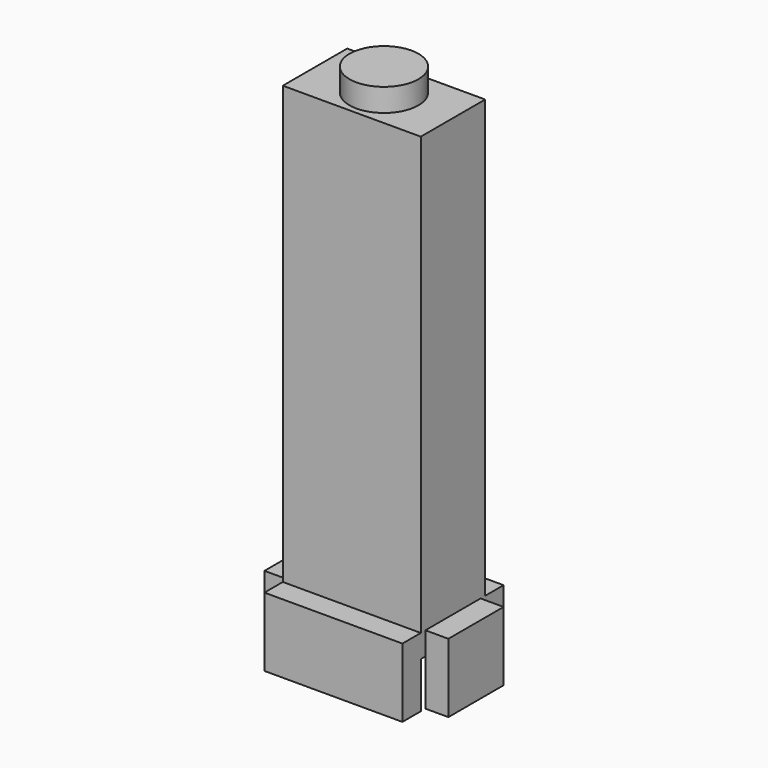
from build123d import *

# Parameters (mm, degrees)
CYLINDER_R     = 1.5
CYLINDER_DEPTH = 10
BOX004_W       = 1
BOX004_H       = 3
BOX004_DEPTH   = 3
BOX005_W       = 1
BOX005_H       = 3
BOX005_DEPTH   = 3
BOX006_W       = 6
BOX006_H       = 1
BOX006_DEPTH   = 3
BOX007_W       = 6
BOX007_H       = 1
BOX007_DEPTH   = 3
BOX003_W       = 6
BOX003_H       = 3.5
BOX003_DEPTH   = 20


with BuildPart() as cylinder:
    # Cylinder → Cylinder (new body)
    with BuildSketch(Plane(origin=(15, 8.75, 20), x_dir=(1, 0, 0), z_dir=(0, 0, 1))):
        Circle(CYLINDER_R)
    extrude(amount=CYLINDER_DEPTH)


with BuildPart() as box004:
    # Box004 → Box004 (new body)
    with BuildSketch(Plane(origin=(11, 7.25, 7), x_dir=(1, 0, 0), z_dir=(0, 0, 1))):
        with Locations((0.5, 1.5)):
            Rectangle(BOX004_W, BOX004_H)
    extrude(amount=BOX004_DEPTH)


with BuildPart() as box005:
    # Box005 → Box005 (new body)
    with BuildSketch(Plane(origin=(18, 7.25, 7), x_dir=(1, 0, 0), z_dir=(0, 0, 1))):
        with Locations((0.5, 1.5)):
            Rectangle(BOX005_W, BOX005_H)
    extrude(amount=BOX005_DEPTH)


with BuildPart() as box006:
    # Box006 → Box006 (new body)
    with BuildSketch(Plane(origin=(12, 6, 7), x_dir=(1, 0, 0), z_dir=(0, 0, 1))):
        with Locations((3, 0.5)):
            Rectangle(BOX006_W, BOX006_H)
    extrude(amount=BOX006_DEPTH)


with BuildPart() as box007:
    # Box007 → Box007 (new body)
    with BuildSketch(Plane(origin=(12, 10.5, 7), x_dir=(1, 0, 0), z_dir=(0, 0, 1))):
        with Locations((3, 0.5)):
            Rectangle(BOX007_W, BOX007_H)
    extrude(amount=BOX007_DEPTH)


with BuildPart() as bt_ex1:
    # Box003 → Box003 (new body)
    with BuildSketch(Plane(origin=(12, 7, 9), x_dir=(1, 0, 0), z_dir=(0, 0, 1))):
        with Locations((3, 1.75)):
            Rectangle(BOX003_W, BOX003_H)
    extrude(amount=BOX003_DEPTH)

    # Fusion: union Box004, Box005, Box006, Box007
    add(box004.part)
    add(box005.part)
    add(box006.part)
    add(box007.part)

    # Fusion005: union Cylinder
    add(cylinder.part)


solid = bt_ex1.part
